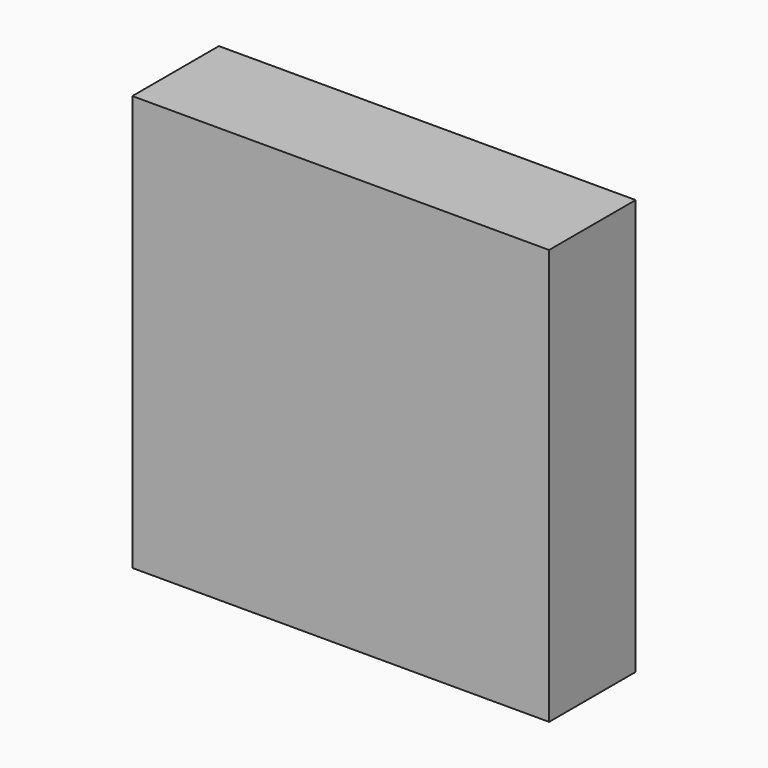
from build123d import *

# Parameters (mm, degrees)
F0_W     = 53.035202
F0_H     = 48.768001
F0_W_2   = 44.805599
F1_DEPTH = 25.4


with BuildPart() as f1:
    # F0 (on Front) → F1 (new body)
    with BuildSketch(Plane.XZ):
        with Locations((-21.0312, 19.6596)):
            Rectangle(F0_W, F0_H)
        with Locations((27.8892, 19.6596)):
            Rectangle(F0_W_2, F0_H)
        with Locations((27.8892, -29.108401)):
            Rectangle(F0_W_2, F0_H)
        with Locations((-21.0312, -29.108401)):
            Rectangle(F0_W, F0_H)
    extrude(amount=F1_DEPTH)


solid = f1.part
